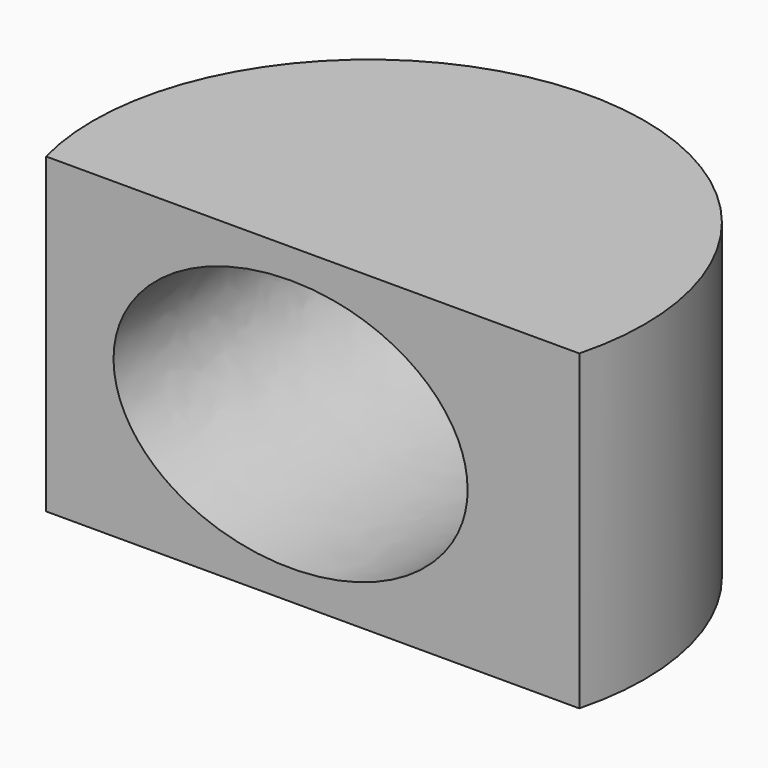
from build123d import *

# Parameters (mm, degrees)
F1_DEPTH = 42.672
F3_DEPTH = 58.928


with BuildPart() as f1:
    # F0 (on Top) → F1 (new body)
    with BuildSketch(Plane.XY):
        with BuildLine():
            Line((0, 0), (72.814859, 0))
            ThreePointArc((72.814859, 0), (36.40743, 47.233436), (0, 0))
        make_face()
    extrude(amount=F1_DEPTH)

    # F2 (on face) → F3 (cut)
    with BuildSketch(Plane.XZ):
        with BuildLine():
            add(Edge.make_bspline(
                [(57.561155, 21.336), (57.561155, 51.300759), (21.297628, 36.318379), (-14.965899, 21.336), (21.297628, 6.353621), (57.561155, -8.628759), (57.561155, 21.336)],
                knots=[0, 0, 0, 2.094395, 2.094395, 4.18879, 4.18879, 6.283185, 6.283185, 6.283185], degree=2, weights=[1, 0.5, 1, 0.5, 1, 0.5, 1]))
        make_face()
    extrude(amount=-F3_DEPTH, mode=Mode.SUBTRACT)


solid = f1.part
